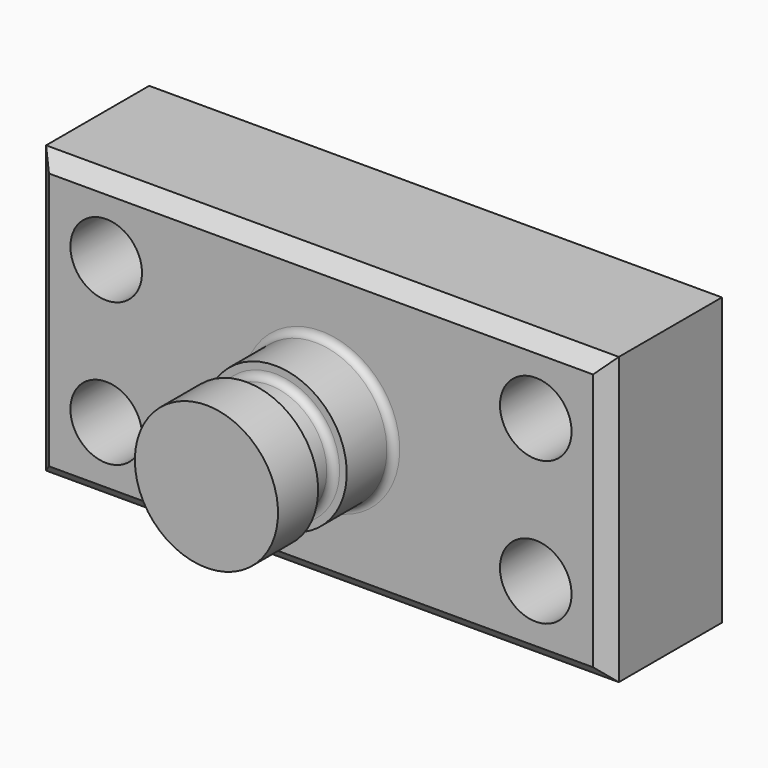
from build123d import *

# Parameters (mm, degrees)
F0_W     = 101.6
F0_H     = 50.8
F1_DEPTH = 25.4
F2_R     = 6.35
F3_DEPTH = 25.401
F4_W     = 12.7
F4_H     = 25.4
F6_W     = 5.860112
F6_H     = 6.35
F8_R     = 1.27
F9_SIZE  = 2.54


with BuildPart() as f1:
    # F0 (on Front) → F1 (new body)
    with BuildSketch(Plane.XZ):
        Rectangle(F0_W, F0_H)
    extrude(amount=F1_DEPTH)

    # F2 (on face) → F3 (cut, through all)
    with BuildSketch(Plane(origin=(0, 0, 0), x_dir=(-1, 0, 0), z_dir=(0, 1, 0))):
        with Locations((-38.1, 12.7)):
            Circle(F2_R)
        with Locations((-38.1, -12.7)):
            Circle(F2_R)
        with Locations((38.1, 12.7)):
            Circle(F2_R)
        with Locations((38.1, -12.7)):
            Circle(F2_R)
    extrude(amount=-F3_DEPTH, mode=Mode.SUBTRACT)

    # F4 (on Top) → F5 (revolve)
    with BuildSketch(Plane.XY):
        with Locations((-6.35, -38.1)):
            Rectangle(F4_W, F4_H)
    revolve(axis=Axis((0, -38.1, 0), (0, -1, 0)))

    # F6 (on Top) → F7 (revolve, cut)
    with BuildSketch(Plane.XY):
        with Locations((-13.090056, -38.735)):
            Rectangle(F6_W, F6_H)
    revolve(axis=Axis((0, -29.157673, 0), (0, -1, 0)), mode=Mode.SUBTRACT)

    # F8
    f8_edges = [f1.edges().sort_by_distance(p)[0] for p in [
        (12.7, -25.4, 0),
        (10.16, -41.91, 0),
        (10.16, -35.56, 0),
    ]]
    fillet(f8_edges, radius=F8_R)

    # F9
    f9_edges = [f1.edges().sort_by_distance(p)[0] for p in [
        (0, -25.4, -25.4),
        (50.8, -25.4, 0),
        (0, -25.4, 25.4),
        (-50.8, -25.4, 0),
    ]]
    chamfer(f9_edges, length=F9_SIZE)


solid = f1.part
